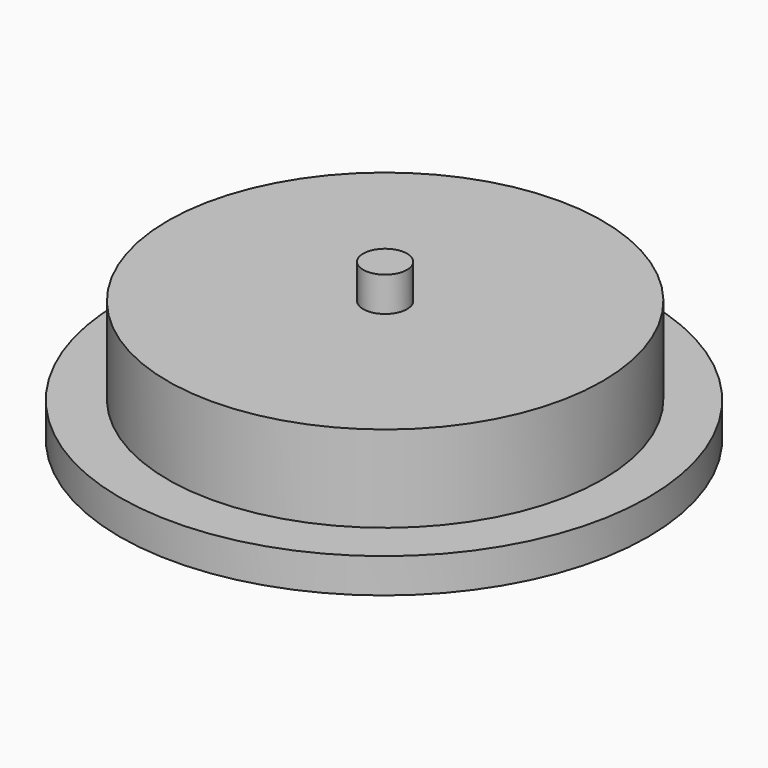
from build123d import *

# Parameters (mm, degrees)
F0_R     = 12.55535
F2_DEPTH = 7
F1_R     = 15.260339
F3_DEPTH = 2
F4_R     = 1.26869
F5_DEPTH = 2


with BuildPart() as f2:
    # F0 (on Top) → F2 (new body)
    with BuildSketch(Plane.XY):
        with Locations((0, 6.495178)):
            Circle(F0_R)
    extrude(amount=F2_DEPTH)

    # F1 (on Top) → F3 (join)
    with BuildSketch(Plane.XY):
        with Locations((0, 6.413349)):
            Circle(F1_R)
    extrude(amount=F3_DEPTH)

    # F4 (on face) → F5 (join)
    with BuildSketch(Plane.XY.offset(7)):
        with Locations((0, 6.495178)):
            Circle(F4_R)
    extrude(amount=F5_DEPTH)


solid = f2.part
